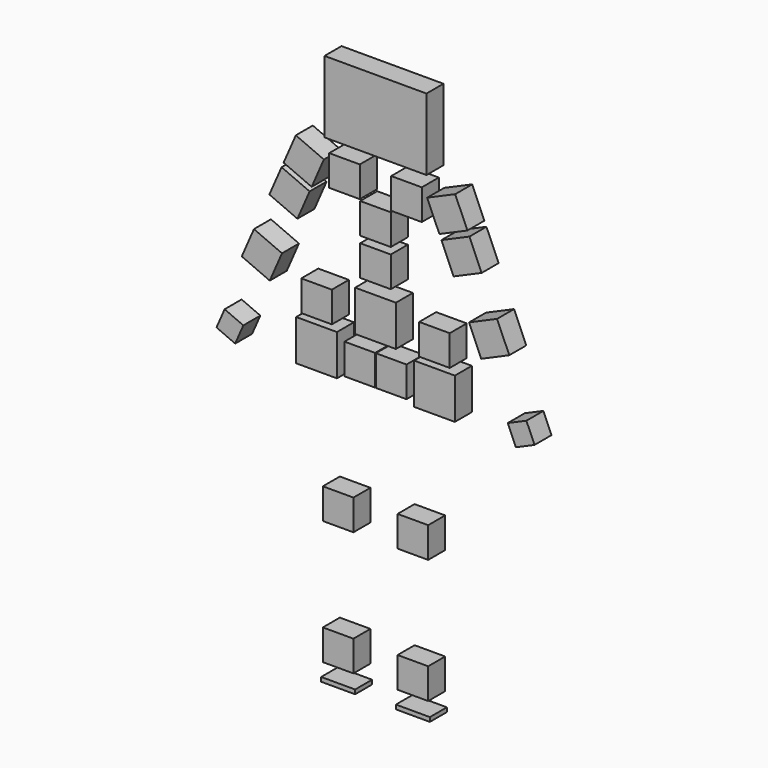
from build123d import *

# Parameters (mm, degrees)
F1_W     = 36
F1_H     = 36
F1_W_2   = 48
F1_H_2   = 48
F1_W_3   = 120
F1_H_3   = 84.5
F1_W_4   = 40
F1_H_4   = 5
F2_DEPTH = 25


with BuildPart() as f2:
    # F1 (on Front) → F2 (new body)
    with BuildSketch(Plane.XZ):
        with Locations((44, 39)):
            Rectangle(F1_W, F1_H)
        with Locations((44, 185.25)):
            Rectangle(F1_W, F1_H)
        with Locations((69.401393, 344.5)):
            Rectangle(F1_W_2, F1_H_2)
        with Locations((69.401393, 392.5)):
            Rectangle(F1_W, F1_H)
        with Locations((18.5, 343.5)):
            Rectangle(F1_W, F1_H)
        with Locations((0, 397.5)):
            Rectangle(F1_W_2, F1_H_2)
        with Locations((0, 451.5)):
            Rectangle(F1_W, F1_H)
        with Locations((0, 495.25)):
            Rectangle(F1_W, F1_H)
        with Locations((-44, 39)):
            Rectangle(F1_W, F1_H)
        with Locations((-69.401393, 392.5)):
            Rectangle(F1_W, F1_H)
        with Locations((-69.401393, 344.5)):
            Rectangle(F1_W_2, F1_H_2)
        with Locations((-18.5, 343.5)):
            Rectangle(F1_W, F1_H)
        with Locations((-44, 185.25)):
            Rectangle(F1_W, F1_H)
        with Locations((36.5, 533)):
            Rectangle(F1_W, F1_H)
        Polygon((124.48785, 396.079505), (157.494467, 410.451814), (143.122158, 443.458431), (110.115541, 429.086122), align=None)
        Polygon((91.95054, 470.802818), (124.957156, 485.175127), (110.584848, 518.181743), (77.578231, 503.809435), align=None)
        Polygon((75.182846, 509.310537), (108.189463, 523.682846), (93.817154, 556.689463), (60.810537, 542.317154), align=None)
        Polygon((155.639532, 339.567248), (165.221071, 317.562837), (187.225482, 327.144376), (177.643943, 349.148787), align=None)
        Polygon((-110.584848, 518.181743), (-124.957156, 485.175127), (-91.95054, 470.802818), (-77.578231, 503.809435), align=None)
        Polygon((-165.221071, 317.562837), (-155.639532, 339.567248), (-177.643943, 349.148787), (-187.225482, 327.144376), align=None)
        Polygon((-93.817154, 556.689463), (-108.189463, 523.682846), (-75.182846, 509.310537), (-60.810537, 542.317154), align=None)
        with Locations((-36.5, 533)):
            Rectangle(F1_W, F1_H)
        Polygon((-143.122158, 443.458431), (-157.494467, 410.451814), (-124.48785, 396.079505), (-110.115541, 429.086122), align=None)
        with Locations((0, 607.75)):
            Rectangle(F1_W_3, F1_H_3)
        with Locations((44, 2.5)):
            Rectangle(F1_W_4, F1_H_4)
        with Locations((-44, 2.5)):
            Rectangle(F1_W_4, F1_H_4)
    extrude(amount=F2_DEPTH)


solid = f2.part
